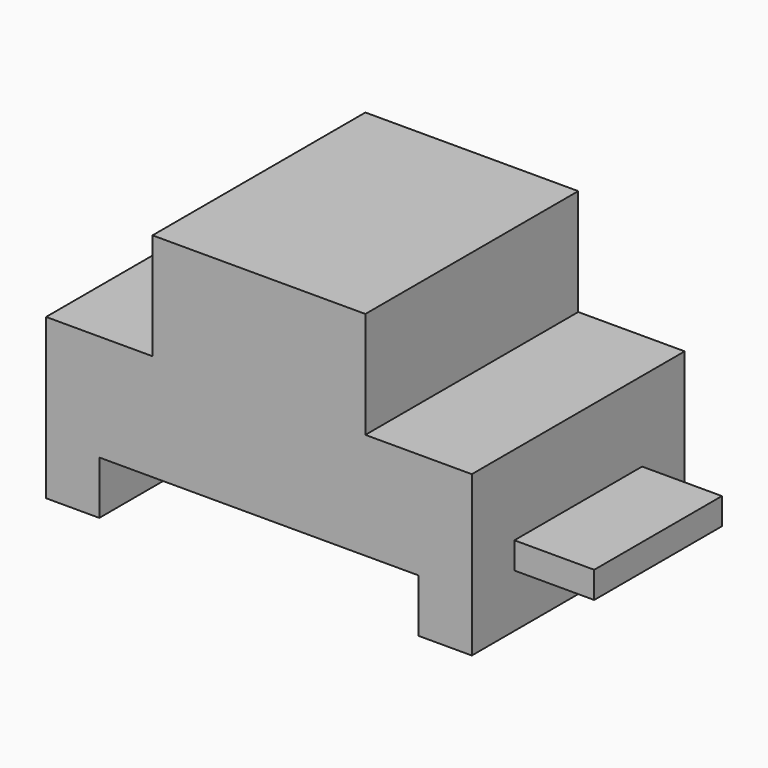
from build123d import *

# Parameters (mm, degrees)
F1_DEPTH = 31.75
F0_W     = 19.05
F0_H     = 6.35
F2_DEPTH = 19.05


with BuildPart() as f1:
    # F0 (on Front) → F1 (new body, symmetric)
    with BuildSketch(Plane.XZ):
        Polygon((-61.186795, 8.242744), (-61.186795, -29.857256), (-48.486795, -29.857256), (-48.486795, -17.157256), (27.713205, -17.157256), (27.713205, -29.857256), (40.413205, -29.857256), (40.413205, -17.157256), (40.413205, -10.807256), (40.413205, 8.242744), (15.013205, 8.242744), (15.013205, 33.642744), (-35.786795, 33.642744), (-35.786795, 8.242744), align=None)
    extrude(amount=F1_DEPTH, both=True)

    # F0 (on Front) → F2 (join, symmetric)
    with BuildSketch(Plane.XZ):
        Polygon((-61.186795, 8.242744), (-61.186795, -29.857256), (-48.486795, -29.857256), (-48.486795, -17.157256), (27.713205, -17.157256), (27.713205, -29.857256), (40.413205, -29.857256), (40.413205, -17.157256), (40.413205, -10.807256), (40.413205, 8.242744), (15.013205, 8.242744), (15.013205, 33.642744), (-35.786795, 33.642744), (-35.786795, 8.242744), align=None)
        with Locations((49.938205, -13.982256)):
            Rectangle(F0_W, F0_H)
    extrude(amount=F2_DEPTH, both=True)


solid = f1.part
